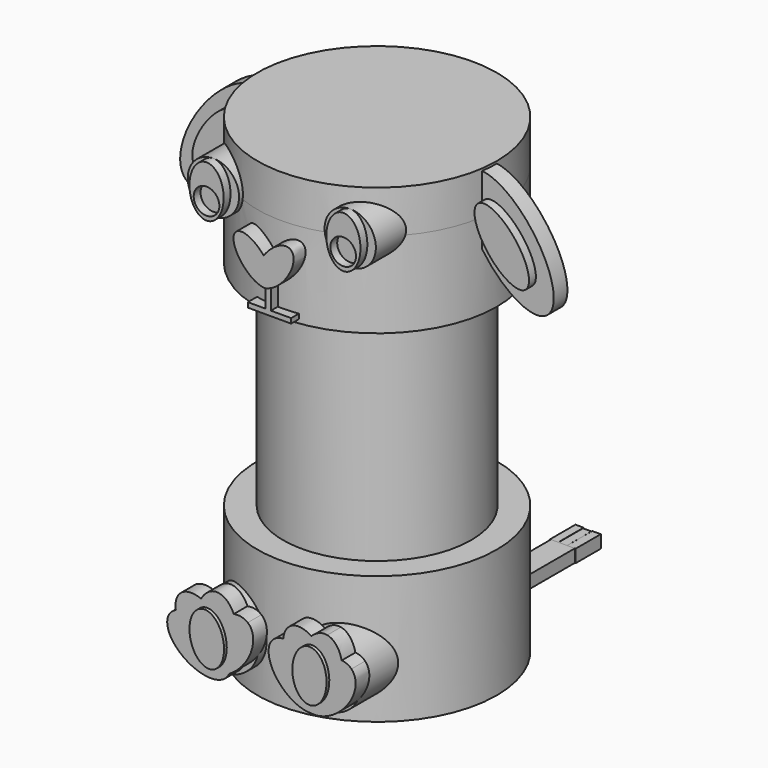
from build123d import *

# Parameters (mm, degrees)
F0_R          = 14
F1_DEPTH      = 15
F3_START      = 5
F2_R          = 11
F3_DEPTH      = 40
F4_R          = 11
F5_DEPTH      = 45
F6_R          = 13.999780971
F7_DEPTH      = 10
F7_DEPTH_BACK = 5
F9_DEPTH      = 2
F11_DEPTH     = 2
F13_DEPTH     = 15.5
F14_R         = 3
F15_DEPTH     = 13.5
F16_R         = 4
F17_DEPTH     = 15
F19_DEPTH     = 2
F21_DEPTH     = 2
F23_DEPTH     = 1
F25_DEPTH     = 1
F26_R         = 1.5
F27_DEPTH     = 1
F28_R         = 1.5
F29_DEPTH     = 1
F31_DEPTH     = 1
F33_DEPTH     = 1
F34_W         = 2.8
F34_H         = 20
F35_DEPTH     = 1.5
F36_W         = 0.9941941992
F36_H         = 3.6772223678
F37_DEPTH     = 1.5
F36_H_2       = 3.5690677079
F36_W_2       = 0.9584948107
F36_H_3       = 3.7035056852
F39_DEPTH     = 0.4
F41_DEPTH     = 0.4
F42_W         = 0.6398157857
F42_H         = 2.6777498424
F43_DEPTH     = 15
F44_W         = 5.0603789277
F44_H         = 0.5697123706
F45_DEPTH     = 15


with BuildPart() as f1:
    # F0 (on Top) → F1 (new body)
    with BuildSketch(Plane.XY):
        Circle(F0_R)
    extrude(amount=F1_DEPTH)

    # F2 (on Top) → F3 (cut)
    with BuildSketch(Plane.XY.offset(F3_START)):
        Circle(F2_R)
    extrude(amount=F3_DEPTH, mode=Mode.SUBTRACT)

    # F4 (on face) → F5 (join)
    with BuildSketch(Plane.XY.offset(5)):
        Circle(F4_R)
    extrude(amount=F5_DEPTH)

    # F6 (on face) → F7 (join, two sides)
    with BuildSketch(Plane.XY.offset(50)) as f7_sk:
        Circle(F6_R)
    extrude(amount=-F7_DEPTH)
    extrude(f7_sk.sketch, amount=F7_DEPTH_BACK)

    # F8 (on Front) → F9 (join)
    with BuildSketch(Plane.XZ):
        with BuildLine():
            add(Edge.make_bspline(
                [(21.4416865832, 42.355155094), (26.3129941353, 45.9635290676), (17.1810328005, 53.1993622731), (8.0490714656, 60.4351954787), (12.3097252484, 49.5909882996), (16.5703790311, 38.7467811205), (21.4416865832, 42.355155094)],
                knots=[0, 0, 0, 2.0943951024, 2.0943951024, 4.1887902048, 4.1887902048, 6.2831853072, 6.2831853072, 6.2831853072], degree=2, weights=[1, 0.5, 1, 0.5, 1, 0.5, 1]))
        make_face()
    extrude(amount=F9_DEPTH)

    # F10 (on Front) → F11 (join)
    with BuildSketch(Plane.XZ):
        with BuildLine():
            add(Edge.make_bspline(
                [(-20.5992083921, 42.4811918362), (-15.7009234372, 38.9095249284), (-11.5218781802, 49.785442395), (-7.3428329232, 60.6613598616), (-16.4201631351, 53.3571093028), (-25.4974933469, 46.0528587441), (-20.5992083921, 42.4811918362)],
                knots=[0, 0, 0, 2.0943951024, 2.0943951024, 4.1887902048, 4.1887902048, 6.2831853072, 6.2831853072, 6.2831853072], degree=2, weights=[1, 0.5, 1, 0.5, 1, 0.5, 1]))
        make_face()
    extrude(amount=F11_DEPTH)

    # F12 (on Front) → F13 (join)
    with BuildSketch(Plane.XZ):
        with BuildLine():
            add(Edge.make_bspline(
                [(-0.859722969, 46.7470825428), (-2.832294214, 49.1294479251), (-4.0581681284, 48.1788166149), (-5.2840420429, 47.2281853048), (-3.232858146, 44.9067818594)],
                knots=[1.5066574889, 1.5066574889, 1.5066574889, 3.1095232346, 3.1095232346, 4.7123889804, 4.7123889804, 4.7123889804], degree=2, weights=[1, 0.6956781144, 1, 0.6956781144, 1]))
            add(Edge.make_bspline(
                [(-3.232858146, 44.9067818594), (-1.400141137, 42.8326257658), (-0.2191243277, 43.5793222992)],
                knots=[4.7123889804, 4.7123889804, 4.7123889804, 6.2027295981, 6.2027295981, 6.2027295981], degree=2, weights=[1, 0.7349724271, 1]))
            add(Edge.make_bspline(
                [(-0.859722969, 46.7470825428), (-4.2179307116, 42.0640288268), (-0.2191243277, 43.5793222992)],
                knots=[1.6412705953, 1.6412705953, 1.6412705953, 3.8244203617, 3.8244203617, 3.8244203617], degree=2, weights=[1, 0.4610884601, 1]))
        make_face()
        with BuildLine():
            add(Edge.make_bspline(
                [(-0.859722969, 46.7470825428), (-4.2179307116, 42.0640288268), (-0.2191243277, 43.5793222992)],
                knots=[1.6412705953, 1.6412705953, 1.6412705953, 3.8244203617, 3.8244203617, 3.8244203617], degree=2, weights=[1, 0.4610884601, 1]))
            add(Edge.make_bspline(
                [(-0.2191243277, 43.5793222992), (1.0820094423, 44.4019626442), (-0.859722969, 46.7470825428)],
                knots=[6.2027295981, 6.2027295981, 6.2027295981, 7.789842796, 7.789842796, 7.789842796], degree=2, weights=[1, 0.7013144277, 1]))
        make_face()
        with BuildLine():
            add(Edge.make_bspline(
                [(-0.2191243277, 43.5793222992), (1.0820094423, 44.4019626442), (-0.859722969, 46.7470825428)],
                knots=[6.2027295981, 6.2027295981, 6.2027295981, 7.789842796, 7.789842796, 7.789842796], degree=2, weights=[1, 0.7013144277, 1]))
            add(Edge.make_bspline(
                [(-0.2191243277, 43.5793222992), (0.7692275423, 43.9538448424), (1.6411824625, 45.083420623)],
                knots=[3.8244203617, 3.8244203617, 3.8244203617, 4.7123889804, 4.7123889804, 4.7123889804], degree=2, weights=[1, 0.9030474118, 1]))
            add(Edge.make_bspline(
                [(1.6411824625, 45.083420623), (3.540101891, 47.5433796711), (2.2439872608, 48.4055860252), (0.9478726306, 49.2677923793), (-0.859722969, 46.7470825428)],
                knots=[4.7123889804, 4.7123889804, 4.7123889804, 6.3184224414, 6.3184224414, 7.9244559025, 7.9244559025, 7.9244559025], degree=2, weights=[1, 0.6945394724, 1, 0.6945394724, 1]))
        make_face()
    extrude(amount=F13_DEPTH)

    # F14 (on Front) → F15 (join)
    with BuildSketch(Plane.XZ):
        with Locations((-8.3429837388, 50.5)):
            Circle(F14_R)
        with Locations((7.6570162612, 50.5)):
            Circle(F14_R)
    extrude(amount=F15_DEPTH)

    # F16 (on Front) → F17 (join)
    with BuildSketch(Plane.XZ):
        with Locations((-5.8320664583, 6)):
            Circle(F16_R)
        with Locations((6.1679335417, 6)):
            Circle(F16_R)
    extrude(amount=F17_DEPTH)

    # F18 (on face) → F19 (join)
    with BuildSketch(Plane.XZ.offset(15)):
        with BuildLine():
            add(Edge.make_bspline(
                [(5.8648724243, 2.4380351931), (7.0509064865, 2.4903717159), (7.4693104642, 3.4425612882)],
                knots=[2.606454701, 2.606454701, 2.606454701, 3.368380215, 3.368380215, 3.368380215], degree=2, weights=[1, 0.928307099, 1]))
            add(Edge.make_bspline(
                [(5.0278178182, 4.1718089113), (5.9787432788, 2.6413337895), (7.4693104642, 3.4425612882)],
                knots=[2.5440785069, 2.5440785069, 2.5440785069, 3.6097120297, 3.6097120297, 3.6097120297], degree=2, weights=[1, 0.8613796828, 1]))
            add(Edge.make_bspline(
                [(4.4198835967, 4.6741830798), (4.7140780042, 4.3906906451), (5.0278178182, 4.1718089113)],
                knots=[5.1226275124, 5.1226275124, 5.1226275124, 5.3367671886, 5.3367671886, 5.3367671886], degree=2, weights=[1, 0.9942734987, 1]))
            add(Edge.make_bspline(
                [(4.4198835967, 4.6741830798), (4.1482602296, 2.7266552606), (5.8648724243, 2.4380351931)],
                knots=[2.4610035843, 2.4610035843, 2.4610035843, 3.568701694, 3.568701694, 3.568701694], degree=2, weights=[1, 0.85050636, 1]))
        make_face()
        with BuildLine():
            add(Edge.make_bspline(
                [(10.600014757, 8.5233219622), (10.1700424371, 8.9624915314), (9.4632784037, 9.0326196073)],
                knots=[0, 0, 0, 0.4821270515, 0.4821270515, 0.4821270515], degree=2, weights=[1, 0.9710846227, 1]))
            add(Edge.make_bspline(
                [(9.5866951781, 8.07655216), (9.5674523527, 8.5782747495), (9.4632784037, 9.0326196073)],
                knots=[5.0638637918, 5.0638637918, 5.0638637918, 5.3230381392, 5.3230381392, 5.3230381392], degree=2, weights=[1, 0.9916153256, 1]))
            ThreePointArc((9.5866951781, 8.07655216), (10.019884122, 7.0781821401), (10.1679335417, 6))
            ThreePointArc((10.1679335417, 6), (10.0585489097, 5.0709617563), (9.7363775126, 4.1927347658))
            add(Edge.make_bspline(
                [(9.7363775126, 4.1927347658), (12.2007665783, 6.888329533), (10.600014757, 8.5233219622)],
                knots=[4.8008228601, 4.8008228601, 4.8008228601, 6.2831853072, 6.2831853072, 6.2831853072], degree=2, weights=[1, 0.737671559, 1]))
        make_face()
        with BuildLine():
            add(Edge.make_bspline(
                [(2.6211445975, 9.0482187735), (2.5641267921, 8.5249870179), (2.6658881315, 7.9327901967)],
                knots=[3.8326941699, 3.8326941699, 3.8326941699, 4.1591845216, 4.1591845216, 4.1591845216], degree=2, weights=[1, 0.9867050704, 1]))
            add(Edge.make_bspline(
                [(2.6211445975, 9.0482187735), (1.8525524042, 8.9952765358), (1.3965488599, 8.5228404796)],
                knots=[5.7695001518, 5.7695001518, 5.7695001518, 6.2831853072, 6.2831853072, 6.2831853072], degree=2, weights=[1, 0.9671968715, 1]))
            add(Edge.make_bspline(
                [(1.3965488599, 8.5228404796), (-0.6515583983, 6.4009277716), (3.0330171271, 3.5155887874)],
                knots=[0, 0, 0, 1.7352629287, 1.7352629287, 1.7352629287], degree=2, weights=[1, 0.6466350772, 1]))
            ThreePointArc((3.0330171271, 3.5155887874), (2.1816780759, 5.6686884229), (2.6658881315, 7.9327901967))
        make_face()
        with BuildLine():
            add(Edge.make_bspline(
                [(6.4728201429, 9.9883635943), (6.2067688127, 10.2143006921), (5.9295436444, 10.3877007128)],
                knots=[2.0697126836, 2.0697126836, 2.0697126836, 2.2572982292, 2.2572982292, 2.2572982292], degree=2, weights=[1, 0.9956046815, 1]))
            add(Edge.make_bspline(
                [(5.9295436444, 10.3877007128), (5.7311099339, 10.1919529068), (5.5514428126, 9.9522068748)],
                knots=[0.7346612441, 0.7346612441, 0.7346612441, 0.9052209041, 0.9052209041, 0.9052209041], degree=2, weights=[1, 0.9963658786, 1]))
            ThreePointArc((5.5514428126, 9.9522068748), (6.0110861311, 9.9969236783), (6.4728201429, 9.9883635943))
        make_face()
        with BuildLine():
            add(Edge.make_bspline(
                [(5.9295436444, 10.3877007128), (5.7311099339, 10.1919529068), (5.5514428126, 9.9522068748)],
                knots=[0.7346612441, 0.7346612441, 0.7346612441, 0.9052209041, 0.9052209041, 0.9052209041], degree=2, weights=[1, 0.9963658786, 1]))
            add(Edge.make_bspline(
                [(5.9295436444, 10.3877007128), (2.9689094843, 12.2395312213), (2.6211445975, 9.0482187735)],
                knots=[2.2572982292, 2.2572982292, 2.2572982292, 3.8326941699, 3.8326941699, 3.8326941699], degree=2, weights=[1, 0.7054787035, 1]))
            add(Edge.make_bspline(
                [(3.4943818027, 8.9752514345), (3.033591623, 9.0766289873), (2.6211445975, 9.0482187735)],
                knots=[5.4894617186, 5.4894617186, 5.4894617186, 5.7695001518, 5.7695001518, 5.7695001518], degree=2, weights=[1, 0.9902133145, 1]))
            ThreePointArc((3.4943818027, 8.9752514345), (4.4519191643, 9.6132111281), (5.5514428126, 9.9522068748))
        make_face()
        with BuildLine():
            add(Edge.make_bspline(
                [(5.5514428126, 9.9522068748), (5.0733239433, 9.3142097779), (4.7872222019, 8.4641807147)],
                knots=[0.9052209041, 0.9052209041, 0.9052209041, 1.3525931698, 1.3525931698, 1.3525931698], degree=2, weights=[1, 0.9750863977, 1]))
            ThreePointArc((5.5514428126, 9.9522068748), (4.4519191643, 9.6132111281), (3.4943818027, 8.9752514345))
            add(Edge.make_bspline(
                [(4.7872222019, 8.4641807147), (4.1356549244, 8.8341661801), (3.4943818027, 8.9752514345)],
                knots=[5.1020882658, 5.1020882658, 5.1020882658, 5.4894617186, 5.4894617186, 5.4894617186], degree=2, weights=[1, 0.981301292, 1]))
        make_face()
        with BuildLine():
            add(Edge.make_bspline(
                [(9.5866951781, 8.07655216), (9.5674523527, 8.5782747495), (9.4632784037, 9.0326196073)],
                knots=[5.0638637918, 5.0638637918, 5.0638637918, 5.3230381392, 5.3230381392, 5.3230381392], degree=2, weights=[1, 0.9916153256, 1]))
            add(Edge.make_bspline(
                [(9.4632784037, 9.0326196073), (9.1465520058, 9.0640465218), (8.7961338016, 9.0153877685)],
                knots=[0.4821270515, 0.4821270515, 0.4821270515, 0.7015852727, 0.7015852727, 0.7015852727], degree=2, weights=[1, 0.9939857993, 1]))
            ThreePointArc((8.7961338016, 9.0153877685), (9.2276377952, 8.5764723716), (9.5866951781, 8.07655216))
        make_face()
        with BuildLine():
            add(Edge.make_bspline(
                [(9.4632784037, 9.0326196073), (9.0470346261, 10.8480276015), (7.7679589477, 11.0899923746)],
                knots=[5.3230381392, 5.3230381392, 5.3230381392, 6.2831853072, 6.2831853072, 6.2831853072], degree=2, weights=[1, 0.8869609408, 1]))
            add(Edge.make_bspline(
                [(7.7679589477, 11.0899923746), (6.8227346876, 11.2688019458), (5.9295436444, 10.3877007128)],
                knots=[0, 0, 0, 0.7346612441, 0.7346612441, 0.7346612441], degree=2, weights=[1, 0.933289311, 1]))
            add(Edge.make_bspline(
                [(6.4728201429, 9.9883635943), (6.2067688127, 10.2143006921), (5.9295436444, 10.3877007128)],
                knots=[2.0697126836, 2.0697126836, 2.0697126836, 2.2572982292, 2.2572982292, 2.2572982292], degree=2, weights=[1, 0.9956046815, 1]))
            ThreePointArc((6.4728201429, 9.9883635943), (7.713061408, 9.6895229877), (8.7961338016, 9.0153877685))
            add(Edge.make_bspline(
                [(9.4632784037, 9.0326196073), (9.1465520058, 9.0640465218), (8.7961338016, 9.0153877685)],
                knots=[0.4821270515, 0.4821270515, 0.4821270515, 0.7015852727, 0.7015852727, 0.7015852727], degree=2, weights=[1, 0.9939857993, 1]))
        make_face()
        with BuildLine():
            ThreePointArc((8.7961338016, 9.0153877685), (7.713061408, 9.6895229877), (6.4728201429, 9.9883635943))
            add(Edge.make_bspline(
                [(7.6213597838, 8.6550867004), (7.1258455681, 9.4337989198), (6.4728201429, 9.9883635943)],
                knots=[1.6158805838, 1.6158805838, 1.6158805838, 2.0697126836, 2.0697126836, 2.0697126836], degree=2, weights=[1, 0.9743648351, 1]))
            add(Edge.make_bspline(
                [(8.7961338016, 9.0153877685), (8.2238622717, 8.935922664), (7.6213597838, 8.6550867004)],
                knots=[0.7015852727, 0.7015852727, 0.7015852727, 1.0576208627, 1.0576208627, 1.0576208627], degree=2, weights=[1, 0.9841966331, 1]))
        make_face()
        with BuildLine():
            add(Edge.make_bspline(
                [(3.4943818027, 8.9752514345), (3.033591623, 9.0766289873), (2.6211445975, 9.0482187735)],
                knots=[5.4894617186, 5.4894617186, 5.4894617186, 5.7695001518, 5.7695001518, 5.7695001518], degree=2, weights=[1, 0.9902133145, 1]))
            add(Edge.make_bspline(
                [(2.6211445975, 9.0482187735), (2.5641267921, 8.5249870179), (2.6658881315, 7.9327901967)],
                knots=[3.8326941699, 3.8326941699, 3.8326941699, 4.1591845216, 4.1591845216, 4.1591845216], degree=2, weights=[1, 0.9867050704, 1]))
            ThreePointArc((2.6658881315, 7.9327901967), (3.0364512416, 8.4887383559), (3.4943818027, 8.9752514345))
        make_face()
        with BuildLine():
            ThreePointArc((10.1679335417, 6), (10.019884122, 7.0781821401), (9.5866951781, 8.07655216))
            add(Edge.make_bspline(
                [(7.4693104642, 3.4425612882), (9.7180641742, 4.6513382745), (9.5866951781, 8.07655216)],
                knots=[3.6097120297, 3.6097120297, 3.6097120297, 5.0638637918, 5.0638637918, 5.0638637918], degree=2, weights=[1, 0.7471212199, 1]))
            add(Edge.make_bspline(
                [(5.8648724243, 2.4380351931), (7.0509064865, 2.4903717159), (7.4693104642, 3.4425612882)],
                knots=[2.606454701, 2.606454701, 2.606454701, 3.368380215, 3.368380215, 3.368380215], degree=2, weights=[1, 0.928307099, 1]))
            add(Edge.make_bspline(
                [(5.8648724243, 2.4380351931), (7.8301013546, 2.1076143164), (9.7363775126, 4.1927347658)],
                knots=[3.568701694, 3.568701694, 3.568701694, 4.8008228601, 4.8008228601, 4.8008228601], degree=2, weights=[1, 0.8161610752, 1]))
            ThreePointArc((9.7363775126, 4.1927347658), (10.0585489097, 5.0709617563), (10.1679335417, 6))
        make_face()
        with BuildLine():
            add(Edge.make_bspline(
                [(2.6658881315, 7.9327901967), (2.9888838546, 6.053127039), (4.4198835967, 4.6741830798)],
                knots=[4.1591845216, 4.1591845216, 4.1591845216, 5.1226275124, 5.1226275124, 5.1226275124], degree=2, weights=[1, 0.8861986581, 1]))
            ThreePointArc((2.6658881315, 7.9327901967), (2.1816780759, 5.6686884229), (3.0330171271, 3.5155887874))
            add(Edge.make_bspline(
                [(3.0330171271, 3.5155887874), (4.486712297, 2.377220659), (5.8648724243, 2.4380351931)],
                knots=[1.7352629287, 1.7352629287, 1.7352629287, 2.606454701, 2.606454701, 2.606454701], degree=2, weights=[1, 0.9066187687, 1]))
            add(Edge.make_bspline(
                [(4.4198835967, 4.6741830798), (4.1482602296, 2.7266552606), (5.8648724243, 2.4380351931)],
                knots=[2.4610035843, 2.4610035843, 2.4610035843, 3.568701694, 3.568701694, 3.568701694], degree=2, weights=[1, 0.85050636, 1]))
        make_face()
        with BuildLine():
            ThreePointArc((6.4728201429, 9.9883635943), (6.0110861311, 9.9969236783), (5.5514428126, 9.9522068748))
            add(Edge.make_bspline(
                [(5.5514428126, 9.9522068748), (5.0733239433, 9.3142097779), (4.7872222019, 8.4641807147)],
                knots=[0.9052209041, 0.9052209041, 0.9052209041, 1.3525931698, 1.3525931698, 1.3525931698], degree=2, weights=[1, 0.9750863977, 1]))
            add(Edge.make_bspline(
                [(6.0184520299, 7.5362770054), (5.4473992003, 8.089306312), (4.7872222019, 8.4641807147)],
                knots=[4.709725626, 4.709725626, 4.709725626, 5.1020882658, 5.1020882658, 5.1020882658], degree=2, weights=[1, 0.9808180848, 1]))
            add(Edge.make_bspline(
                [(7.6213597838, 8.6550867004), (6.7587282691, 8.2530004724), (6.0184520299, 7.5362770054)],
                knots=[1.0576208627, 1.0576208627, 1.0576208627, 1.561864865, 1.561864865, 1.561864865], degree=2, weights=[1, 0.9683852492, 1]))
            add(Edge.make_bspline(
                [(7.6213597838, 8.6550867004), (7.1258455681, 9.4337989198), (6.4728201429, 9.9883635943)],
                knots=[1.6158805838, 1.6158805838, 1.6158805838, 2.0697126836, 2.0697126836, 2.0697126836], degree=2, weights=[1, 0.9743648351, 1]))
        make_face()
        with BuildLine():
            add(Edge.make_bspline(
                [(7.4693104642, 3.4425612882), (9.7180641742, 4.6513382745), (9.5866951781, 8.07655216)],
                knots=[3.6097120297, 3.6097120297, 3.6097120297, 5.0638637918, 5.0638637918, 5.0638637918], degree=2, weights=[1, 0.7471212199, 1]))
            ThreePointArc((9.5866951781, 8.07655216), (9.2276377952, 8.5764723716), (8.7961338016, 9.0153877685))
            add(Edge.make_bspline(
                [(8.7961338016, 9.0153877685), (8.2238622717, 8.935922664), (7.6213597838, 8.6550867004)],
                knots=[0.7015852727, 0.7015852727, 0.7015852727, 1.0576208627, 1.0576208627, 1.0576208627], degree=2, weights=[1, 0.9841966331, 1]))
            add(Edge.make_bspline(
                [(7.6212541941, 3.7855885886), (9.8664429783, 5.1268857699), (7.6213597838, 8.6550867004)],
                knots=[0, 0, 0, 1.6158805838, 1.6158805838, 1.6158805838], degree=2, weights=[1, 0.6909887895, 1]))
            add(Edge.make_bspline(
                [(7.5751473415, 3.7590977345), (7.5984301724, 3.7719533004), (7.6212541941, 3.7855885886)],
                knots=[6.2619166822, 6.2619166822, 6.2619166822, 6.2831853072, 6.2831853072, 6.2831853072], degree=2, weights=[1, 0.9999434562, 1]))
            add(Edge.make_bspline(
                [(7.4693104642, 3.4425612882), (7.5351167543, 3.5923210097), (7.5751473415, 3.7590977345)],
                knots=[3.368380215, 3.368380215, 3.368380215, 3.4942039605, 3.4942039605, 3.4942039605], degree=2, weights=[1, 0.9980217008, 1]))
        make_face()
        with BuildLine():
            add(Edge.make_bspline(
                [(6.0184520299, 7.5362770054), (4.9749958211, 6.5260196015), (4.5761368804, 5.3291412943)],
                knots=[1.561864865, 1.561864865, 1.561864865, 2.2584680331, 2.2584680331, 2.2584680331], degree=2, weights=[1, 0.9399537408, 1]))
            add(Edge.make_bspline(
                [(4.5761368804, 5.3291412943), (4.7220862393, 4.6638712178), (5.0278178182, 4.1718089113)],
                knots=[2.1693337119, 2.1693337119, 2.1693337119, 2.5440785069, 2.5440785069, 2.5440785069], degree=2, weights=[1, 0.9824970906, 1]))
            add(Edge.make_bspline(
                [(5.0278178182, 4.1718089113), (6.4834199338, 3.1563027482), (7.5751473415, 3.7590977345)],
                knots=[5.3367671886, 5.3367671886, 5.3367671886, 6.2619166822, 6.2619166822, 6.2619166822], degree=2, weights=[1, 0.8949064747, 1]))
            add(Edge.make_bspline(
                [(7.5751473415, 3.7590977345), (8.0171652494, 5.6006470099), (6.0184520299, 7.5362770054)],
                knots=[3.4942039605, 3.4942039605, 3.4942039605, 4.709725626, 4.709725626, 4.709725626], degree=2, weights=[1, 0.820928708, 1]))
        make_face()
        with BuildLine():
            add(Edge.make_bspline(
                [(6.0184520299, 7.5362770054), (5.4473992003, 8.089306312), (4.7872222019, 8.4641807147)],
                knots=[4.709725626, 4.709725626, 4.709725626, 5.1020882658, 5.1020882658, 5.1020882658], degree=2, weights=[1, 0.9808180848, 1]))
            add(Edge.make_bspline(
                [(4.7872222019, 8.4641807147), (4.2430527648, 6.8474137755), (4.5761368804, 5.3291412943)],
                knots=[1.3525931698, 1.3525931698, 1.3525931698, 2.1693337119, 2.1693337119, 2.1693337119], degree=2, weights=[1, 0.9177692298, 1]))
            add(Edge.make_bspline(
                [(6.0184520299, 7.5362770054), (4.9749958211, 6.5260196015), (4.5761368804, 5.3291412943)],
                knots=[1.561864865, 1.561864865, 1.561864865, 2.2584680331, 2.2584680331, 2.2584680331], degree=2, weights=[1, 0.9399537408, 1]))
        make_face()
        with BuildLine():
            add(Edge.make_bspline(
                [(7.6212541941, 3.7855885886), (9.8664429783, 5.1268857699), (7.6213597838, 8.6550867004)],
                knots=[0, 0, 0, 1.6158805838, 1.6158805838, 1.6158805838], degree=2, weights=[1, 0.6909887895, 1]))
            add(Edge.make_bspline(
                [(7.6213597838, 8.6550867004), (6.7587282691, 8.2530004724), (6.0184520299, 7.5362770054)],
                knots=[1.0576208627, 1.0576208627, 1.0576208627, 1.561864865, 1.561864865, 1.561864865], degree=2, weights=[1, 0.9683852492, 1]))
            add(Edge.make_bspline(
                [(7.5751473415, 3.7590977345), (8.0171652494, 5.6006470099), (6.0184520299, 7.5362770054)],
                knots=[3.4942039605, 3.4942039605, 3.4942039605, 4.709725626, 4.709725626, 4.709725626], degree=2, weights=[1, 0.820928708, 1]))
            add(Edge.make_bspline(
                [(7.5751473415, 3.7590977345), (7.5984301724, 3.7719533004), (7.6212541941, 3.7855885886)],
                knots=[6.2619166822, 6.2619166822, 6.2619166822, 6.2831853072, 6.2831853072, 6.2831853072], degree=2, weights=[1, 0.9999434562, 1]))
        make_face()
        with BuildLine():
            add(Edge.make_bspline(
                [(4.7872222019, 8.4641807147), (4.2430527648, 6.8474137755), (4.5761368804, 5.3291412943)],
                knots=[1.3525931698, 1.3525931698, 1.3525931698, 2.1693337119, 2.1693337119, 2.1693337119], degree=2, weights=[1, 0.9177692298, 1]))
            add(Edge.make_bspline(
                [(4.7872222019, 8.4641807147), (4.1356549244, 8.8341661801), (3.4943818027, 8.9752514345)],
                knots=[5.1020882658, 5.1020882658, 5.1020882658, 5.4894617186, 5.4894617186, 5.4894617186], degree=2, weights=[1, 0.981301292, 1]))
            ThreePointArc((3.4943818027, 8.9752514345), (3.0364512416, 8.4887383559), (2.6658881315, 7.9327901967))
            add(Edge.make_bspline(
                [(2.6658881315, 7.9327901967), (2.9888838546, 6.053127039), (4.4198835967, 4.6741830798)],
                knots=[4.1591845216, 4.1591845216, 4.1591845216, 5.1226275124, 5.1226275124, 5.1226275124], degree=2, weights=[1, 0.8861986581, 1]))
            add(Edge.make_bspline(
                [(4.5761368804, 5.3291412943), (4.4645157114, 4.9941934162), (4.4198835967, 4.6741830798)],
                knots=[2.2584680331, 2.2584680331, 2.2584680331, 2.4610035843, 2.4610035843, 2.4610035843], degree=2, weights=[1, 0.9948767993, 1]))
        make_face()
        with BuildLine():
            add(Edge.make_bspline(
                [(5.0278178182, 4.1718089113), (5.9787432788, 2.6413337895), (7.4693104642, 3.4425612882)],
                knots=[2.5440785069, 2.5440785069, 2.5440785069, 3.6097120297, 3.6097120297, 3.6097120297], degree=2, weights=[1, 0.8613796828, 1]))
            add(Edge.make_bspline(
                [(7.4693104642, 3.4425612882), (7.5351167543, 3.5923210097), (7.5751473415, 3.7590977345)],
                knots=[3.368380215, 3.368380215, 3.368380215, 3.4942039605, 3.4942039605, 3.4942039605], degree=2, weights=[1, 0.9980217008, 1]))
            add(Edge.make_bspline(
                [(5.0278178182, 4.1718089113), (6.4834199338, 3.1563027482), (7.5751473415, 3.7590977345)],
                knots=[5.3367671886, 5.3367671886, 5.3367671886, 6.2619166822, 6.2619166822, 6.2619166822], degree=2, weights=[1, 0.8949064747, 1]))
        make_face()
        with BuildLine():
            add(Edge.make_bspline(
                [(4.5761368804, 5.3291412943), (4.7220862393, 4.6638712178), (5.0278178182, 4.1718089113)],
                knots=[2.1693337119, 2.1693337119, 2.1693337119, 2.5440785069, 2.5440785069, 2.5440785069], degree=2, weights=[1, 0.9824970906, 1]))
            add(Edge.make_bspline(
                [(4.5761368804, 5.3291412943), (4.4645157114, 4.9941934162), (4.4198835967, 4.6741830798)],
                knots=[2.2584680331, 2.2584680331, 2.2584680331, 2.4610035843, 2.4610035843, 2.4610035843], degree=2, weights=[1, 0.9948767993, 1]))
            add(Edge.make_bspline(
                [(4.4198835967, 4.6741830798), (4.7140780042, 4.3906906451), (5.0278178182, 4.1718089113)],
                knots=[5.1226275124, 5.1226275124, 5.1226275124, 5.3367671886, 5.3367671886, 5.3367671886], degree=2, weights=[1, 0.9942734987, 1]))
        make_face()
    extrude(amount=F19_DEPTH)

    # F20 (on face) → F21 (join)
    with BuildSketch(Plane.XZ.offset(15)):
        with BuildLine():
            add(Edge.make_bspline(
                [(-3.7255962429, 3.3562391422), (1.809214464, 6.5606334588), (-1.5219077535, 9.3515748039)],
                knots=[4.185669792, 4.185669792, 4.185669792, 6.2831853072, 6.2831853072, 6.2831853072], degree=2, weights=[1, 0.4986482136, 1]))
            add(Edge.make_bspline(
                [(-1.5219077535, 9.3515748039), (-2.1486780481, 9.876706881), (-3.1508141189, 9.7077388236)],
                knots=[0, 0, 0, 0.6322114385, 0.6322114385, 0.6322114385], degree=2, weights=[1, 0.9504532277, 1]))
            add(Edge.make_bspline(
                [(-3.605984889, 4.1790795003), (-1.6988068835, 6.5894130772), (-3.1508141189, 9.7077388236)],
                knots=[3.8101377296, 3.8101377296, 3.8101377296, 5.3526945473, 5.3526945473, 5.3526945473], degree=2, weights=[1, 0.7170201377, 1]))
            add(Edge.make_bspline(
                [(-3.7255962429, 3.3562391422), (-3.5724965625, 3.7309509595), (-3.605984889, 4.1790795003)],
                knots=[3.233219267, 3.233219267, 3.233219267, 3.5522178002, 3.5522178002, 3.5522178002], degree=2, weights=[1, 0.9873069355, 1]))
        make_face()
        with BuildLine():
            add(Edge.make_bspline(
                [(-3.605984889, 4.1790795003), (-1.6988068835, 6.5894130772), (-3.1508141189, 9.7077388236)],
                knots=[3.8101377296, 3.8101377296, 3.8101377296, 5.3526945473, 5.3526945473, 5.3526945473], degree=2, weights=[1, 0.7170201377, 1]))
            add(Edge.make_bspline(
                [(-3.1508141189, 9.7077388236), (-4.1190159602, 9.5444923453), (-5.0820921971, 8.7894842492)],
                knots=[0.6322114385, 0.6322114385, 0.6322114385, 1.2443478373, 1.2443478373, 1.2443478373], degree=2, weights=[1, 0.9535256354, 1]))
            add(Edge.make_bspline(
                [(-3.6371808648, 4.4208176779), (-2.6858725785, 6.4158629813), (-5.0820921971, 8.7894842492)],
                knots=[0.2492239765, 0.2492239765, 0.2492239765, 1.6522917414, 1.6522917414, 1.6522917414], degree=2, weights=[1, 0.7638531337, 1]))
            add(Edge.make_bspline(
                [(-3.605984889, 4.1790795003), (-3.6148959984, 4.298324707), (-3.6371808648, 4.4208176779)],
                knots=[3.5522178002, 3.5522178002, 3.5522178002, 3.6377770178, 3.6377770178, 3.6377770178], degree=2, weights=[1, 0.9990850921, 1]))
        make_face()
        with BuildLine():
            add(Edge.make_bspline(
                [(-3.1508141189, 9.7077388236), (-4.1190159602, 9.5444923453), (-5.0820921971, 8.7894842492)],
                knots=[0.6322114385, 0.6322114385, 0.6322114385, 1.2443478373, 1.2443478373, 1.2443478373], degree=2, weights=[1, 0.9535256354, 1]))
            add(Edge.make_bspline(
                [(-3.1508141189, 9.7077388236), (-3.9006001816, 11.317976794), (-5.1555972121, 11.317976794)],
                knots=[5.3526945473, 5.3526945473, 5.3526945473, 6.2831853072, 6.2831853072, 6.2831853072], degree=2, weights=[1, 0.8937115047, 1]))
            add(Edge.make_bspline(
                [(-5.1555972121, 11.317976794), (-6.2421961914, 11.317976794), (-6.9834858498, 10.0468203599)],
                knots=[0, 0, 0, 0.820014109, 0.820014109, 0.820014109], degree=2, weights=[1, 0.9171180108, 1]))
            add(Edge.make_bspline(
                [(-5.0820921971, 8.7894842492), (-5.9673646462, 9.6664078404), (-6.9834858498, 10.0468203599)],
                knots=[1.6522917414, 1.6522917414, 1.6522917414, 2.2574229443, 2.2574229443, 2.2574229443], degree=2, weights=[1, 0.9545751587, 1]))
        make_face()
        with BuildLine():
            add(Edge.make_bspline(
                [(-10.7143869411, 7.2215909838), (-12.0461715016, 4.9685282649), (-8.3840614649, 2.943092909), (-4.7219514282, 0.9176575532), (-3.7255962429, 3.3562391422)],
                knots=[0, 0, 0, 1.6166096335, 1.6166096335, 3.233219267, 3.233219267, 3.233219267], degree=2, weights=[1, 0.6907252412, 1, 0.6907252412, 1]))
            add(Edge.make_bspline(
                [(-7.1980772309, 4.0693070893), (-6.5113368736, 1.7434267233), (-3.7255962429, 3.3562391422)],
                knots=[2.7481085681, 2.7481085681, 2.7481085681, 4.185669792, 4.185669792, 4.185669792], degree=2, weights=[1, 0.7526092158, 1]))
            add(Edge.make_bspline(
                [(-9.9378971565, 7.9033664244), (-9.5918281845, 5.5007329753), (-7.1980772309, 4.0693070893)],
                knots=[3.8860469087, 3.8860469087, 3.8860469087, 5.1617094868, 5.1617094868, 5.1617094868], degree=2, weights=[1, 0.8033890149, 1]))
            add(Edge.make_bspline(
                [(-9.9378971565, 7.9033664244), (-10.4540721171, 7.6619817516), (-10.7143869411, 7.2215909838)],
                knots=[5.8794991798, 5.8794991798, 5.8794991798, 6.2831853072, 6.2831853072, 6.2831853072], degree=2, weights=[1, 0.9796987532, 1]))
        make_face()
        with BuildLine():
            add(Edge.make_bspline(
                [(-7.1980772309, 4.0693070893), (-6.5113368736, 1.7434267233), (-3.7255962429, 3.3562391422)],
                knots=[2.7481085681, 2.7481085681, 2.7481085681, 4.185669792, 4.185669792, 4.185669792], degree=2, weights=[1, 0.7526092158, 1]))
            add(Edge.make_bspline(
                [(-3.7255962429, 3.3562391422), (-3.5724965625, 3.7309509595), (-3.605984889, 4.1790795003)],
                knots=[3.233219267, 3.233219267, 3.233219267, 3.5522178002, 3.5522178002, 3.5522178002], degree=2, weights=[1, 0.9873069355, 1]))
            add(Edge.make_bspline(
                [(-6.0247847888, 3.5675163998), (-4.7080273149, 2.7862940054), (-3.605984889, 4.1790795003)],
                knots=[2.7865023564, 2.7865023564, 2.7865023564, 3.8101377296, 3.8101377296, 3.8101377296], degree=2, weights=[1, 0.8718557131, 1]))
            add(Edge.make_bspline(
                [(-7.1980772309, 4.0693070893), (-6.608336456, 3.7166512669), (-6.0247847888, 3.5675163998)],
                knots=[5.1617094868, 5.1617094868, 5.1617094868, 5.5229332379, 5.5229332379, 5.5229332379], degree=2, weights=[1, 0.9837339648, 1]))
        make_face()
        with BuildLine():
            add(Edge.make_bspline(
                [(-5.0820921971, 8.7894842492), (-5.7762792417, 8.2452730862), (-6.3042054831, 7.5077446863)],
                knots=[1.2443478373, 1.2443478373, 1.2443478373, 1.6922498556, 1.6922498556, 1.6922498556], degree=2, weights=[1, 0.9750276072, 1]))
            add(Edge.make_bspline(
                [(-5.0820921971, 8.7894842492), (-5.9673646462, 9.6664078404), (-6.9834858498, 10.0468203599)],
                knots=[1.6522917414, 1.6522917414, 1.6522917414, 2.2574229443, 2.2574229443, 2.2574229443], degree=2, weights=[1, 0.9545751587, 1]))
            add(Edge.make_bspline(
                [(-6.9834858498, 10.0468203599), (-7.4899996359, 9.1782553518), (-7.6181035151, 8.0081365804)],
                knots=[0.820014109, 0.820014109, 0.820014109, 1.3973886175, 1.3973886175, 1.3973886175], degree=2, weights=[1, 0.9586184323, 1]))
            add(Edge.make_bspline(
                [(-6.3042054831, 7.5077446863), (-6.9508251511, 7.8436841968), (-7.6181035151, 8.0081365804)],
                knots=[4.7997712002, 4.7997712002, 4.7997712002, 5.1609796666, 5.1609796666, 5.1609796666], degree=2, weights=[1, 0.9837353376, 1]))
        make_face()
        with BuildLine():
            add(Edge.make_bspline(
                [(-9.9378971565, 7.9033664244), (-9.5918281845, 5.5007329753), (-7.1980772309, 4.0693070893)],
                knots=[3.8860469087, 3.8860469087, 3.8860469087, 5.1617094868, 5.1617094868, 5.1617094868], degree=2, weights=[1, 0.8033890149, 1]))
            add(Edge.make_bspline(
                [(-7.2709682369, 5.1861874297), (-7.3456590266, 4.5691431589), (-7.1980772309, 4.0693070893)],
                knots=[2.3764072941, 2.3764072941, 2.3764072941, 2.7481085681, 2.7481085681, 2.7481085681], degree=2, weights=[1, 0.9827794233, 1]))
            add(Edge.make_bspline(
                [(-7.6181035151, 8.0081365804), (-7.7842896237, 6.4901693933), (-7.2709682369, 5.1861874297)],
                knots=[1.3973886175, 1.3973886175, 1.3973886175, 2.1328763301, 2.1328763301, 2.1328763301], degree=2, weights=[1, 0.9331408284, 1]))
            add(Edge.make_bspline(
                [(-7.6181035151, 8.0081365804), (-8.990557849, 8.3463813054), (-9.9378971565, 7.9033664244)],
                knots=[5.1609796666, 5.1609796666, 5.1609796666, 5.8794991798, 5.8794991798, 5.8794991798], degree=2, weights=[1, 0.9361573359, 1]))
        make_face()
        with BuildLine():
            add(Edge.make_bspline(
                [(-6.9834858498, 10.0468203599), (-7.4899996359, 9.1782553518), (-7.6181035151, 8.0081365804)],
                knots=[0.820014109, 0.820014109, 0.820014109, 1.3973886175, 1.3973886175, 1.3973886175], degree=2, weights=[1, 0.9586184323, 1]))
            add(Edge.make_bspline(
                [(-6.9834858498, 10.0468203599), (-10.4326270868, 11.3380998881), (-9.9378971565, 7.9033664244)],
                knots=[2.2574229443, 2.2574229443, 2.2574229443, 3.8860469087, 3.8860469087, 3.8860469087], degree=2, weights=[1, 0.6863689192, 1]))
            add(Edge.make_bspline(
                [(-7.6181035151, 8.0081365804), (-8.990557849, 8.3463813054), (-9.9378971565, 7.9033664244)],
                knots=[5.1609796666, 5.1609796666, 5.1609796666, 5.8794991798, 5.8794991798, 5.8794991798], degree=2, weights=[1, 0.9361573359, 1]))
        make_face()
        with BuildLine():
            add(Edge.make_bspline(
                [(-3.6371808648, 4.4208176779), (-2.6858725785, 6.4158629813), (-5.0820921971, 8.7894842492)],
                knots=[0.2492239765, 0.2492239765, 0.2492239765, 1.6522917414, 1.6522917414, 1.6522917414], degree=2, weights=[1, 0.7638531337, 1]))
            add(Edge.make_bspline(
                [(-5.0820921971, 8.7894842492), (-5.7762792417, 8.2452730862), (-6.3042054831, 7.5077446863)],
                knots=[1.2443478373, 1.2443478373, 1.2443478373, 1.6922498556, 1.6922498556, 1.6922498556], degree=2, weights=[1, 0.9750276072, 1]))
            add(Edge.make_bspline(
                [(-3.6371808648, 4.4208176779), (-3.979007107, 6.2997300792), (-6.3042054831, 7.5077446863)],
                knots=[3.6377770178, 3.6377770178, 3.6377770178, 4.7997712002, 4.7997712002, 4.7997712002], degree=2, weights=[1, 0.8359158044, 1]))
        make_face()
        with BuildLine():
            add(Edge.make_bspline(
                [(-3.6371808648, 4.4208176779), (-3.979007107, 6.2997300792), (-6.3042054831, 7.5077446863)],
                knots=[3.6377770178, 3.6377770178, 3.6377770178, 4.7997712002, 4.7997712002, 4.7997712002], degree=2, weights=[1, 0.8359158044, 1]))
            add(Edge.make_bspline(
                [(-6.3042054831, 7.5077446863), (-7.129517079, 6.3547602486), (-7.2709682369, 5.1861874297)],
                knots=[1.6922498556, 1.6922498556, 1.6922498556, 2.3764072941, 2.3764072941, 2.3764072941], degree=2, weights=[1, 0.9420594031, 1]))
            add(Edge.make_bspline(
                [(-7.2709682369, 5.1861874297), (-6.8193382094, 4.0389190217), (-6.0247847888, 3.5675163998)],
                knots=[2.1328763301, 2.1328763301, 2.1328763301, 2.7865023564, 2.7865023564, 2.7865023564], degree=2, weights=[1, 0.9470702582, 1]))
            add(Edge.make_bspline(
                [(-6.0247847888, 3.5675163998), (-4.7478897841, 3.2411878541), (-4.0096515799, 3.9140919477)],
                knots=[5.5229332379, 5.5229332379, 5.5229332379, 6.2831853072, 6.2831853072, 6.2831853072], degree=2, weights=[1, 0.9286178794, 1]))
            add(Edge.make_bspline(
                [(-4.0096515799, 3.9140919477), (-3.7782151742, 4.1250462223), (-3.6371808648, 4.4208176779)],
                knots=[0, 0, 0, 0.2492239765, 0.2492239765, 0.2492239765], degree=2, weights=[1, 0.9922459678, 1]))
        make_face()
        with BuildLine():
            add(Edge.make_bspline(
                [(-6.3042054831, 7.5077446863), (-7.129517079, 6.3547602486), (-7.2709682369, 5.1861874297)],
                knots=[1.6922498556, 1.6922498556, 1.6922498556, 2.3764072941, 2.3764072941, 2.3764072941], degree=2, weights=[1, 0.9420594031, 1]))
            add(Edge.make_bspline(
                [(-6.3042054831, 7.5077446863), (-6.9508251511, 7.8436841968), (-7.6181035151, 8.0081365804)],
                knots=[4.7997712002, 4.7997712002, 4.7997712002, 5.1609796666, 5.1609796666, 5.1609796666], degree=2, weights=[1, 0.9837353376, 1]))
            add(Edge.make_bspline(
                [(-7.6181035151, 8.0081365804), (-7.7842896237, 6.4901693933), (-7.2709682369, 5.1861874297)],
                knots=[1.3973886175, 1.3973886175, 1.3973886175, 2.1328763301, 2.1328763301, 2.1328763301], degree=2, weights=[1, 0.9331408284, 1]))
        make_face()
        with BuildLine():
            add(Edge.make_bspline(
                [(-7.2709682369, 5.1861874297), (-7.3456590266, 4.5691431589), (-7.1980772309, 4.0693070893)],
                knots=[2.3764072941, 2.3764072941, 2.3764072941, 2.7481085681, 2.7481085681, 2.7481085681], degree=2, weights=[1, 0.9827794233, 1]))
            add(Edge.make_bspline(
                [(-7.1980772309, 4.0693070893), (-6.608336456, 3.7166512669), (-6.0247847888, 3.5675163998)],
                knots=[5.1617094868, 5.1617094868, 5.1617094868, 5.5229332379, 5.5229332379, 5.5229332379], degree=2, weights=[1, 0.9837339648, 1]))
            add(Edge.make_bspline(
                [(-7.2709682369, 5.1861874297), (-6.8193382094, 4.0389190217), (-6.0247847888, 3.5675163998)],
                knots=[2.1328763301, 2.1328763301, 2.1328763301, 2.7865023564, 2.7865023564, 2.7865023564], degree=2, weights=[1, 0.9470702582, 1]))
        make_face()
        with BuildLine():
            add(Edge.make_bspline(
                [(-6.0247847888, 3.5675163998), (-4.7080273149, 2.7862940054), (-3.605984889, 4.1790795003)],
                knots=[2.7865023564, 2.7865023564, 2.7865023564, 3.8101377296, 3.8101377296, 3.8101377296], degree=2, weights=[1, 0.8718557131, 1]))
            add(Edge.make_bspline(
                [(-3.605984889, 4.1790795003), (-3.6148959984, 4.298324707), (-3.6371808648, 4.4208176779)],
                knots=[3.5522178002, 3.5522178002, 3.5522178002, 3.6377770178, 3.6377770178, 3.6377770178], degree=2, weights=[1, 0.9990850921, 1]))
            add(Edge.make_bspline(
                [(-4.0096515799, 3.9140919477), (-3.7782151742, 4.1250462223), (-3.6371808648, 4.4208176779)],
                knots=[0, 0, 0, 0.2492239765, 0.2492239765, 0.2492239765], degree=2, weights=[1, 0.9922459678, 1]))
            add(Edge.make_bspline(
                [(-6.0247847888, 3.5675163998), (-4.7478897841, 3.2411878541), (-4.0096515799, 3.9140919477)],
                knots=[5.5229332379, 5.5229332379, 5.5229332379, 6.2831853072, 6.2831853072, 6.2831853072], degree=2, weights=[1, 0.9286178794, 1]))
        make_face()
    extrude(amount=F21_DEPTH)

    # F22 (on face) → F23 (join)
    with BuildSketch(Plane.XZ.offset(13.5)):
        with BuildLine():
            add(Edge.make_bspline(
                [(-8.3429837388, 53.5), (-11.807085354, 53.5), (-10.0750345464, 49), (-8.3429837388, 44.5), (-6.6109329313, 49), (-4.8788821237, 53.5), (-8.3429837388, 53.5)],
                knots=[0, 0, 0, 2.0943951024, 2.0943951024, 4.1887902048, 4.1887902048, 6.2831853072, 6.2831853072, 6.2831853072], degree=2, weights=[1, 0.5, 1, 0.5, 1, 0.5, 1]))
        make_face()
    extrude(amount=F23_DEPTH)

    # F24 (on face) → F25 (join)
    with BuildSketch(Plane.XZ.offset(13.5)):
        with BuildLine():
            add(Edge.make_bspline(
                [(7.6570162612, 53.5), (4.192914646, 53.5), (5.9249654536, 49), (7.6570162612, 44.5), (9.3890670687, 49), (11.1211178763, 53.5), (7.6570162612, 53.5)],
                knots=[0, 0, 0, 2.0943951024, 2.0943951024, 4.1887902048, 4.1887902048, 6.2831853072, 6.2831853072, 6.2831853072], degree=2, weights=[1, 0.5, 1, 0.5, 1, 0.5, 1]))
        make_face()
    extrude(amount=F25_DEPTH)

    # F26 (on face) → F27 (cut)
    with BuildSketch(Plane.XZ.offset(14.5)):
        with Locations((-8.3444682185, 49.4999994491)):
            Circle(F26_R)
    extrude(amount=-F27_DEPTH, mode=Mode.SUBTRACT)

    # F28 (on face) → F29 (cut)
    with BuildSketch(Plane.XZ.offset(14.5)):
        with Locations((7.6344022323, 49.4998721473)):
            Circle(F28_R)
    extrude(amount=-F29_DEPTH, mode=Mode.SUBTRACT)

    # F30 (on face) → F31 (join)
    with BuildSketch(Plane.XZ.offset(2)):
        with BuildLine():
            add(Edge.make_bspline(
                [(-13.6395516996, 52.2552760776), (-16.4986119664, 54.2112347661), (-18.8803791372, 47.6622130725), (-21.2621463081, 41.1131913788), (-16.0213188705, 45.706254384), (-10.7804914329, 50.2993173891), (-13.6395516996, 52.2552760776)],
                knots=[0, 0, 0, 2.0943951024, 2.0943951024, 4.1887902048, 4.1887902048, 6.2831853072, 6.2831853072, 6.2831853072], degree=2, weights=[1, 0.5, 1, 0.5, 1, 0.5, 1]))
        make_face()
    extrude(amount=F31_DEPTH)

    # F32 (on face) → F33 (join)
    with BuildSketch(Plane.XZ.offset(2)):
        with BuildLine():
            add(Edge.make_bspline(
                [(14.2075014252, 51.9282714816), (11.4774535199, 49.795939792), (16.9974476507, 45.5424512478), (22.5174417816, 41.2889627036), (19.7274955561, 47.6747829374), (16.9375493306, 54.0606031712), (14.2075014252, 51.9282714816)],
                knots=[0, 0, 0, 2.0943951024, 2.0943951024, 4.1887902048, 4.1887902048, 6.2831853072, 6.2831853072, 6.2831853072], degree=2, weights=[1, 0.5, 1, 0.5, 1, 0.5, 1]))
        make_face()
    extrude(amount=F33_DEPTH)

    # F34 (on Top) → F35 (join)
    with BuildSketch(Plane.XY):
        with Locations((0, 17.3863882179)):
            Rectangle(F34_W, F34_H)
    extrude(amount=-F35_DEPTH)

    # F38 (on face) → F39 (join)
    with BuildSketch(Plane.XZ.offset(17)):
        with BuildLine():
            add(Edge.make_bspline(
                [(-6.4658121117, 9.3165487188), (-9.8701479012, 8.7801012415), (-7.4675233624, 4.6031747588), (-5.0648988236, 0.4262482762), (-4.0631875729, 5.1396222361), (-3.0614763221, 9.852996196), (-6.4658121117, 9.3165487188)],
                knots=[0, 0, 0, 2.0943951024, 2.0943951024, 4.1887902048, 4.1887902048, 6.2831853072, 6.2831853072, 6.2831853072], degree=2, weights=[1, 0.5, 1, 0.5, 1, 0.5, 1]))
        make_face()
    extrude(amount=F39_DEPTH)

    # F40 (on face) → F41 (join)
    with BuildSketch(Plane.XZ.offset(17)):
        with BuildLine():
            add(Edge.make_bspline(
                [(6.0107929645, 9.48332946), (2.5466913494, 9.48332946), (4.2787421569, 4.98332946), (6.0107929645, 0.48332946), (7.7428437721, 4.98332946), (9.4748945797, 9.48332946), (6.0107929645, 9.48332946)],
                knots=[0, 0, 0, 2.0943951024, 2.0943951024, 4.1887902048, 4.1887902048, 6.2831853072, 6.2831853072, 6.2831853072], degree=2, weights=[1, 0.5, 1, 0.5, 1, 0.5, 1]))
        make_face()
    extrude(amount=F41_DEPTH)

    # F42 (on Front) → F43 (join)
    with BuildSketch(Plane.XZ):
        with Locations((-0.7404525677, 41.9914890081)):
            Rectangle(F42_W, F42_H)
    extrude(amount=F43_DEPTH)

    # F44 (on Front) → F45 (join)
    with BuildSketch(Plane.XZ):
        with Locations((-0.5846370477, 40.7268088311)):
            Rectangle(F44_W, F44_H)
    extrude(amount=F45_DEPTH)


with BuildPart() as f37:
    # F36 (on Top) → F37 (new body)
    with BuildSketch(Plane.XY):
        with Locations((1, 28.9827534924)):
            Rectangle(F36_W, F36_H)
    extrude(amount=-F37_DEPTH)


with BuildPart() as f37b:
    # F36 (on Top) → F37, piece 2 (new body)
    with BuildSketch(Plane.XY):
        with Locations((0, 28.9286761624)):
            Rectangle(F36_W, F36_H_2)
    extrude(amount=-F37_DEPTH)


with BuildPart() as f37c:
    # F36 (on Top) → F37, piece 3 (new body)
    with BuildSketch(Plane.XY):
        with Locations((-1.0087717045, 28.9958951511)):
            Rectangle(F36_W_2, F36_H_3)
    extrude(amount=-F37_DEPTH)


solid = Compound([f1.part, f37.part, f37b.part, f37c.part])
